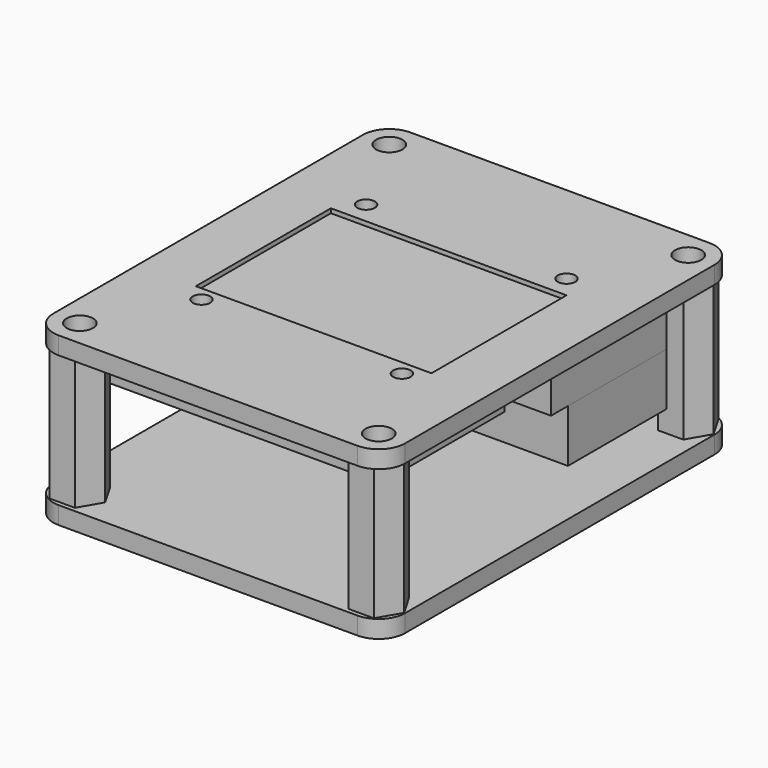
from build123d import *

# Parameters (mm, degrees)
F0_W      = 28.2
F0_H      = 27.2
F1_DEPTH  = 1
F2_W      = 26.8
F2_H      = 19.2
F3_DEPTH  = 1.5
F4_R      = 1.5
F4_R_2    = 1
F4_W      = 26.8
F4_H      = 19.2
F5_DEPTH  = 2
F7_W      = 33.6
F7_H      = 17.6
F7_W_2    = 37.3
F7_H_2    = 16.4
F8_DEPTH  = 4
F9_W      = 22
F9_H      = 14
F10_DEPTH = 6
F12_DEPTH = 15
F13_R     = 1.5
F14_DEPTH = 2


with BuildPart() as f1:
    # F0 (on Top) → F1 (new body)
    with BuildSketch(Plane.XY):
        Rectangle(F0_W, F0_H)
        with BuildLine():
            Line((-10.8, -12.6), (-12, -12.6))
            ThreePointArc((-12, -12.6), (-12.9, -11.7), (-12, -10.8))
            Line((-12, -10.8), (-10.8, -10.8))
            ThreePointArc((-10.8, -10.8), (-9.9, -11.7), (-10.8, -12.6))
        make_face(mode=Mode.SUBTRACT)
        with BuildLine():
            Line((10.8, -10.8), (12, -10.8))
            ThreePointArc((12, -10.8), (12.9, -11.7), (12, -12.6))
            Line((12, -12.6), (10.8, -12.6))
            ThreePointArc((10.8, -12.6), (9.9, -11.7), (10.8, -10.8))
        make_face(mode=Mode.SUBTRACT)
        with BuildLine():
            ThreePointArc((-12, 10.8), (-12.9, 11.7), (-12, 12.6))
            Line((-12, 12.6), (-10.8, 12.6))
            ThreePointArc((-10.8, 12.6), (-9.9, 11.7), (-10.8, 10.8))
            Line((-10.8, 10.8), (-12, 10.8))
        make_face(mode=Mode.SUBTRACT)
        with BuildLine():
            ThreePointArc((12, 12.6), (12.9, 11.7), (12, 10.8))
            Line((12, 10.8), (10.8, 10.8))
            ThreePointArc((10.8, 10.8), (9.9, 11.7), (10.8, 12.6))
            Line((10.8, 12.6), (12, 12.6))
        make_face(mode=Mode.SUBTRACT)
    extrude(amount=F1_DEPTH)

    # F2 (on face) → F3 (join)
    with BuildSketch(Plane.XY.offset(1)):
        with Locations((0, -0.4)):
            Rectangle(F2_W, F2_H)
    extrude(amount=F3_DEPTH)


with BuildPart() as f5:
    # F4 (on face) → F5 (new body)
    with BuildSketch(Plane.XY.offset(1)):
        with BuildLine():
            ThreePointArc((20, 22), (19.12132, 24.12132), (17, 25))
            Line((17, 25), (-17, 25))
            ThreePointArc((-17, 25), (-19.12132, 24.12132), (-20, 22))
            Line((-20, 22), (-20, -22))
            ThreePointArc((-20, -22), (-19.12132, -24.12132), (-17, -25))
            Line((-17, -25), (17, -25))
            ThreePointArc((17, -25), (19.12132, -24.12132), (20, -22))
            Line((20, -22), (20, 22))
        make_face()
        with Locations((-17, -22)):
            Circle(F4_R, mode=Mode.SUBTRACT)
        with Locations((-11.4, -11.7)):
            Circle(F4_R_2, mode=Mode.SUBTRACT)
        with Locations((17, -22)):
            Circle(F4_R, mode=Mode.SUBTRACT)
        with Locations((0, -0.4)):
            Rectangle(F4_W, F4_H, mode=Mode.SUBTRACT)
        with Locations((11.4, -11.7)):
            Circle(F4_R_2, mode=Mode.SUBTRACT)
        with Locations((-11.4, 11.7)):
            Circle(F4_R_2, mode=Mode.SUBTRACT)
        with Locations((-17, 22)):
            Circle(F4_R, mode=Mode.SUBTRACT)
        with Locations((11.4, 11.7)):
            Circle(F4_R_2, mode=Mode.SUBTRACT)
        with Locations((17, 22)):
            Circle(F4_R, mode=Mode.SUBTRACT)
    extrude(amount=F5_DEPTH)


with BuildPart() as f8:
    # F7 (on offset) → F8 (new body)
    with BuildSketch(Plane(origin=(0, 0, -0.5), x_dir=(1, 0, 0), z_dir=(0, 0, -1))):
        with Locations((-2.7, 9.3)):
            Rectangle(F7_W, F7_H)
        with Locations((-0.85, -9.7)):
            Rectangle(F7_W_2, F7_H_2)
    extrude(amount=F8_DEPTH)


with BuildPart() as f10:
    # F9 (on face) → F10 (new body)
    with BuildSketch(Plane(origin=(0, 0, -4.5), x_dir=(1, 0, 0), z_dir=(0, 0, -1))):
        with Locations((6.8, -10.9)):
            Rectangle(F9_W, F9_H)
    extrude(amount=F10_DEPTH)


with BuildPart() as f12:
    # F11 (on face) → F12 (new body)
    with BuildSketch(Plane(origin=(0, 0, 1), x_dir=(1, 0, 0), z_dir=(0, 0, -1))):
        Polygon((-15.556624, 24.5), (-18.443376, 24.5), (-19.886751, 22), (-18.443376, 19.5), (-15.556624, 19.5), (-14.113249, 22), align=None)
        Polygon((18.443376, 19.5), (19.886751, 22), (18.443376, 24.5), (15.556624, 24.5), (14.113249, 22), (15.556624, 19.5), align=None)
        Polygon((-19.886751, -22), (-18.443376, -24.5), (-15.556624, -24.5), (-14.113249, -22), (-15.556624, -19.5), (-18.443376, -19.5), align=None)
        Polygon((15.556624, -19.5), (14.113249, -22), (15.556624, -24.5), (18.443376, -24.5), (19.886751, -22), (18.443376, -19.5), align=None)
    extrude(amount=F12_DEPTH)


with BuildPart() as f14:
    # F13 (on face) → F14 (new body)
    with BuildSketch(Plane(origin=(0, 0, -14), x_dir=(1, 0, 0), z_dir=(0, 0, -1))):
        with BuildLine():
            ThreePointArc((20, 22), (19.12132, 24.12132), (17, 25))
            Line((17, 25), (-17, 25))
            ThreePointArc((-17, 25), (-19.12132, 24.12132), (-20, 22))
            Line((-20, 22), (-20, -22))
            ThreePointArc((-20, -22), (-19.12132, -24.12132), (-17, -25))
            Line((-17, -25), (17, -25))
            ThreePointArc((17, -25), (19.12132, -24.12132), (20, -22))
            Line((20, -22), (20, 22))
        make_face()
        with Locations((-17, -22)):
            Circle(F13_R, mode=Mode.SUBTRACT)
        with Locations((17, -22)):
            Circle(F13_R, mode=Mode.SUBTRACT)
        with Locations((-17, 22)):
            Circle(F13_R, mode=Mode.SUBTRACT)
        with Locations((17, 22)):
            Circle(F13_R, mode=Mode.SUBTRACT)
    extrude(amount=F14_DEPTH)


solid = Compound([f1.part, f5.part, f8.part, f10.part, f12.part, f14.part])
